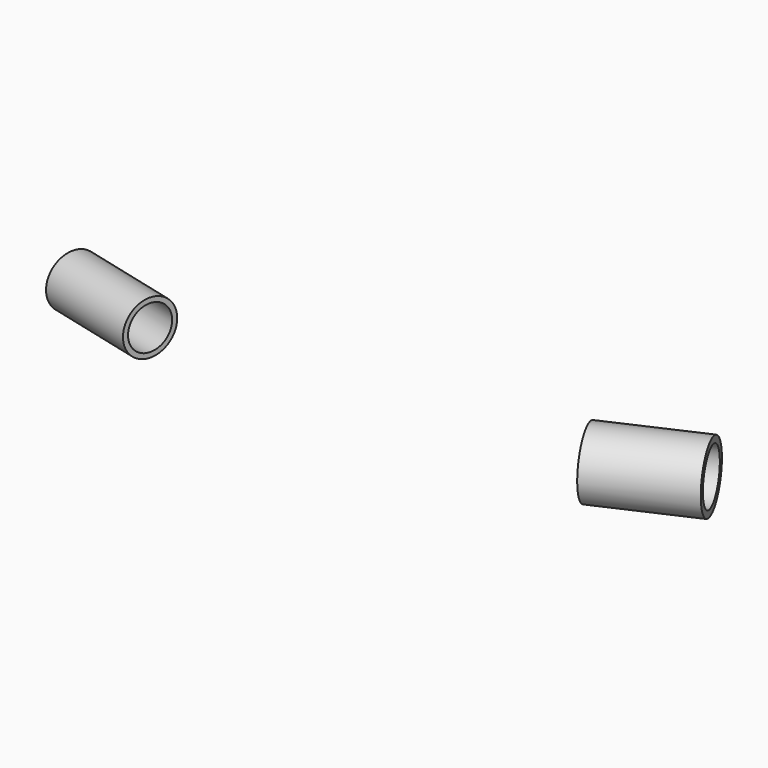
from build123d import *


with BuildPart() as f1:
    # F0 (on Top) → F1 (revolve)
    with BuildSketch(Plane.XY):
        Polygon((-125.808098, 68.32063), (-125.069048, 71.228172), (-183.219904, 86.009174), (-183.958954, 83.101631), align=None)
    revolve(axis=Axis((-158.086076, 63.111779, 0), (-0.969181, 0.24635, 0)))


with BuildPart() as f2:
    # F0 (on Top) → F2 (revolve)
    with BuildSketch(Plane.XY):
        Polygon((165.501045, 116.518304), (163.857429, 120.165019), (109.15671, 95.510783), (110.800326, 91.864069), align=None)
    revolve(axis=Axis((144.725148, 89.604328, 0), (0.911679, 0.410904, 0)))


solid = Compound([f1.part, f2.part])
